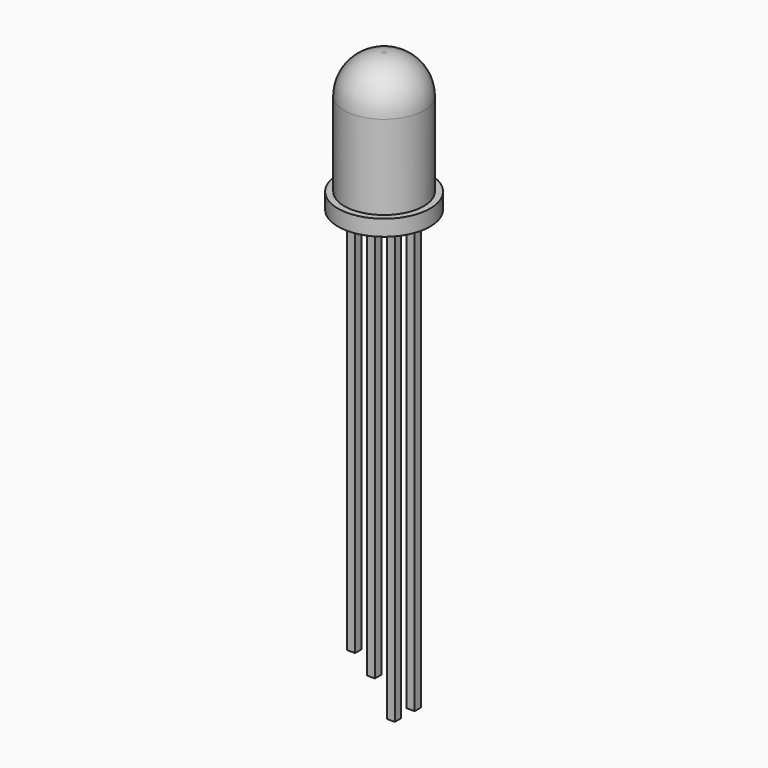
from build123d import *

# Parameters (mm, degrees)
F0_R     = 2.9
F1_DEPTH = 1
F2_R     = 2.5
F3_DEPTH = 8.7
F4_R     = 2.4
F5_W     = 0.5
F5_H     = 25
F5_H_2   = 26
F5_H_3   = 28
F5_H_4   = 27
F6_DEPTH = 0.25


with BuildPart() as f1:
    # F0 (on Top) → F1 (new body)
    with BuildSketch(Plane.XY):
        Circle(F0_R)
    extrude(amount=F1_DEPTH)

    # F2 (on Top) → F3 (join)
    with BuildSketch(Plane.XY):
        Circle(F2_R)
    extrude(amount=F3_DEPTH)

    # F4
    f4_edges = [f1.edges().sort_by_distance(p)[0] for p in [
        (-2.5, 0, 8.7),
    ]]
    fillet(f4_edges, radius=F4_R)

    # F5 (on Front) → F6 (join, symmetric)
    with BuildSketch(Plane.XZ):
        with Locations((-1.875, -12.5)):
            Rectangle(F5_W, F5_H)
        with Locations((-0.625, -13)):
            Rectangle(F5_W, F5_H_2)
        with Locations((0.625, -14)):
            Rectangle(F5_W, F5_H_3)
        with Locations((1.875, -13.5)):
            Rectangle(F5_W, F5_H_4)
    extrude(amount=F6_DEPTH, both=True)


solid = f1.part
